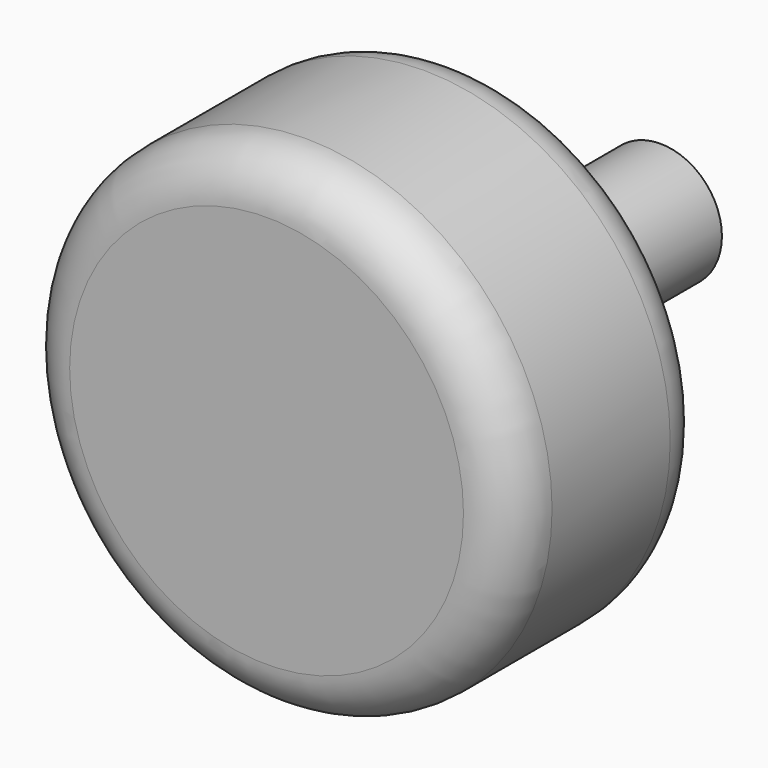
from build123d import *

# Parameters (mm, degrees)
F0_R     = 25.4
F0_R_2   = 6.35
F1_DEPTH = 25.4
F2_R     = 5.08
F3_DEPTH = 25.4


with BuildPart() as f1:
    # F0 (on Front) → F1 (new body)
    with BuildSketch(Plane.XZ):
        Circle(F0_R)
        Circle(F0_R_2, mode=Mode.SUBTRACT)
        Circle(F0_R_2)
    extrude(amount=F1_DEPTH)

    # F2
    f2_edges = [f1.edges().sort_by_distance(p)[0] for p in [
        (-25.4, -25.4, 0),
        (-25.4, 0, 0),
    ]]
    fillet(f2_edges, radius=F2_R)

    # F0 (on Front) → F3 (join)
    with BuildSketch(Plane.XZ):
        Circle(F0_R_2)
    extrude(amount=-F3_DEPTH)


solid = f1.part
